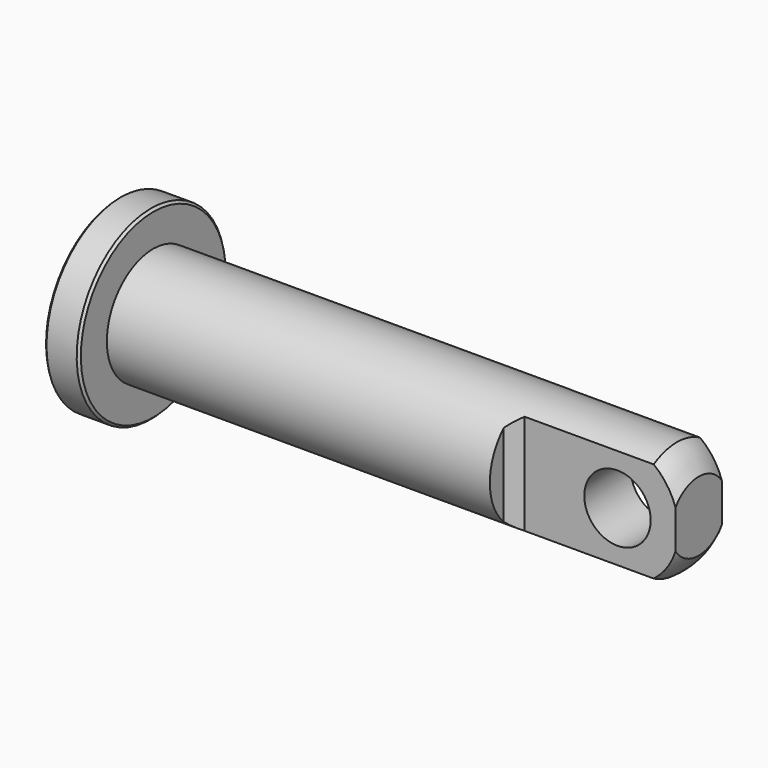
from build123d import *

# Parameters (mm, degrees)
F2_W     = 88.9
F2_H     = 15.875
F3_DEPTH = 31.75
F4_SIZE  = 6.35
F5_R     = 18.161
F6_DEPTH = 66.676
F7_SIZE  = 1.27


with BuildPart() as f1:
    # F0 (on Front) → F1 (revolve)
    with BuildSketch(Plane.XZ):
        with BuildLine():
            Line((-317.5, 0), (0, 0))
            Line((0, 0), (0, 19.05))
            ThreePointArc((0, 19.05), (-5.231581, 26.09159), (-11.935, 31.75))
            Line((-11.935, 31.75), (-298.45, 31.75))
            Line((-298.45, 31.75), (-298.45, 50.8))
            Line((-298.45, 50.8), (-317.5, 50.8))
            Line((-317.5, 50.8), (-317.5, 0))
        make_face()
    revolve(axis=Axis((-156.483173, 0, 0), (-1, 0, 0)))

    # F2 (on Top) → F3 (cut, symmetric)
    with BuildSketch(Plane.XY):
        with Locations((-44.45, 23.8125)):
            Rectangle(F2_W, F2_H)
        with Locations((-44.45, -23.8125)):
            Rectangle(F2_W, F2_H)
    extrude(amount=F3_DEPTH, both=True, mode=Mode.SUBTRACT)

    # F4
    f4_edges = [f1.edges().sort_by_distance(p)[0] for p in [
        (-88.9, -15.875, 0),
        (-88.9, 15.875, 0),
    ]]
    chamfer(f4_edges, length=F4_SIZE)

    # F5 (on face) → F6 (cut, through all)
    with BuildSketch(Plane.XZ.offset(15.875)):
        with Locations((-31.75, 0)):
            Circle(F5_R)
    extrude(amount=-F6_DEPTH, mode=Mode.SUBTRACT)

    # F7
    f7_edges = [f1.edges().sort_by_distance(p)[0] for p in [
        (-298.45, 0, -50.8),
        (-317.5, 0, -50.8),
    ]]
    chamfer(f7_edges, length=F7_SIZE)


solid = f1.part
